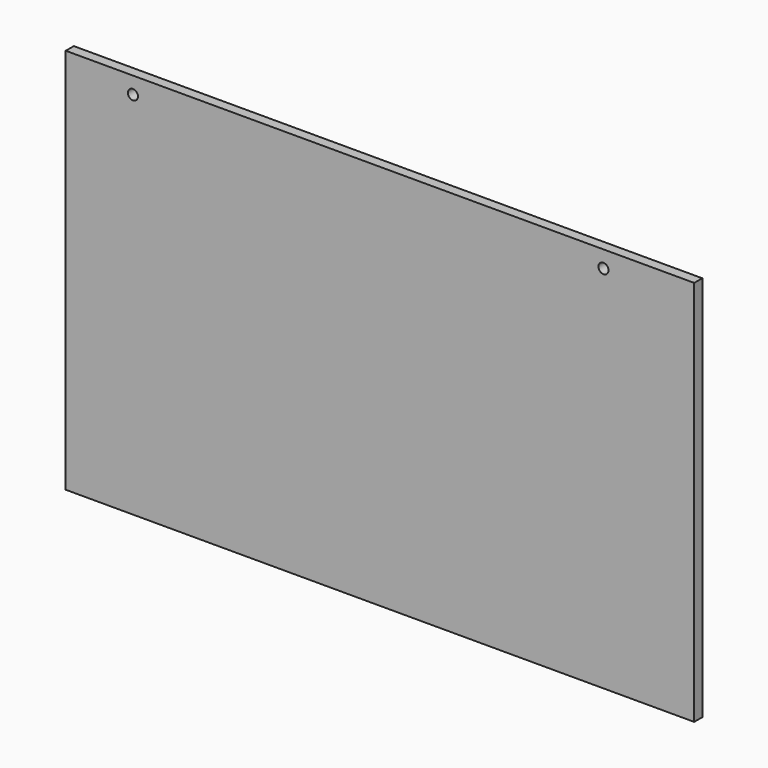
from build123d import *

# Parameters (mm, degrees)
CYLINDER174_R          = 1.5
CYLINDER174_DEPTH      = 200
CYLINDER174_ROLL_ANGLE = 90
CYLINDER173_R          = 1.5
CYLINDER173_DEPTH      = 200
CYLINDER173_ROLL_ANGLE = 90
BOX089_W               = 187
BOX089_H               = 3
BOX089_DEPTH           = 115


with BuildPart() as obj1:
    # Cylinder174 → Cylinder174 (new body)
    with BuildSketch(Plane.XY):
        Circle(CYLINDER174_R)
    extrude(amount=CYLINDER174_DEPTH)


with BuildPart() as obj1_1:
    # Cylinder174 roll: moved
    add(obj1.part.rotate(Axis((0, 0, 0), (1, 0, 0)), CYLINDER174_ROLL_ANGLE))


with BuildPart() as obj1_2:
    # Cylinder174 placement: moved
    add(obj1_1.part.moved(Location((160, 154, 110))))


with BuildPart() as obj2:
    # Cylinder173 → Cylinder173 (new body)
    with BuildSketch(Plane.XY):
        Circle(CYLINDER173_R)
    extrude(amount=CYLINDER173_DEPTH)


with BuildPart() as obj2_1:
    # Cylinder173 roll: moved
    add(obj2.part.rotate(Axis((0, 0, 0), (1, 0, 0)), CYLINDER173_ROLL_ANGLE))


with BuildPart() as obj2_2:
    # Cylinder173 placement: moved
    add(obj2_1.part.moved(Location((20, 154, 110))))


with BuildPart() as obj3:
    # Box089 → Box089 (new body)
    with BuildSketch(Plane(origin=(0, -44, 0), x_dir=(1, 0, 0), z_dir=(0, 0, 1))):
        with Locations((93.5, 1.5)):
            Rectangle(BOX089_W, BOX089_H)
    extrude(amount=BOX089_DEPTH)

    # Cut217: cut obj2
    add(obj2_2.part, mode=Mode.SUBTRACT)

    # Cut218: cut obj1
    add(obj1_2.part, mode=Mode.SUBTRACT)


solid = obj3.part
